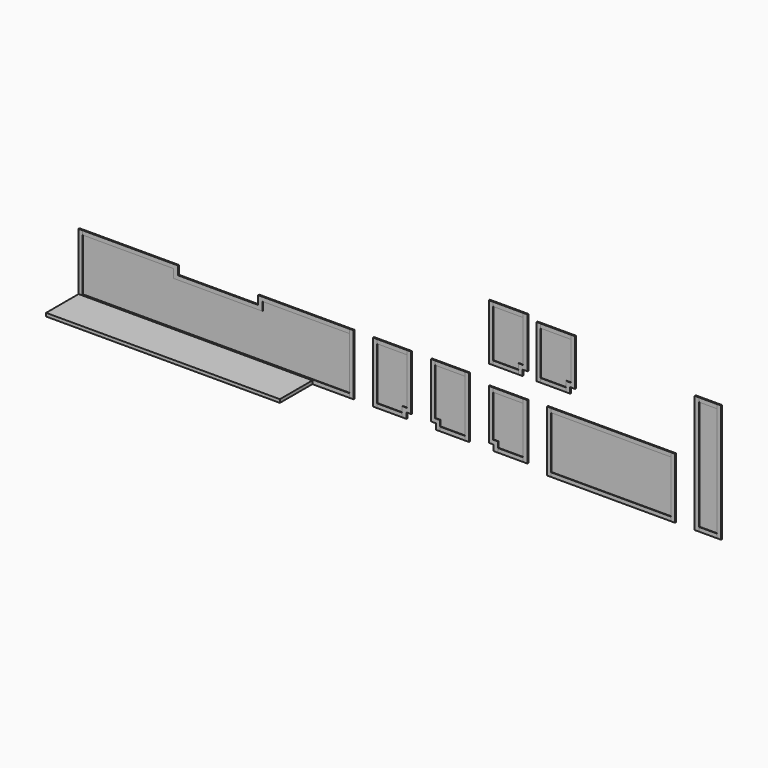
from build123d import *

# Parameters (mm, degrees)
F0_W      = 3619.5
F0_H      = 647.7
F1_DEPTH  = 50.8
F3_DEPTH  = 19.05
F2_W      = 4127.5
F2_H      = 63.5
F4_DEPTH  = 19.05
F5_DEPTH  = 9.525
F7_DEPTH  = 19.05
F6_W      = 463.55
F6_H      = 63.5
F6_W_2    = 387.35
F6_W_3    = 469.9
F6_W_4    = 393.7
F6_W_5    = 1854.2
F8_DEPTH  = 19.05
F6_H_2    = 812.8
F9_DEPTH  = 9.525
F10_DEPTH = 19.05
F6_W_6    = 279.4
F11_DEPTH = 19.05
F6_H_3    = 1701.8
F12_DEPTH = 9.525
F13_DEPTH = 19.05
F14_DEPTH = 19.05
F15_DEPTH = 9.525
F16_DEPTH = 19.05
F17_DEPTH = 19.05
F18_DEPTH = 9.525


with BuildPart() as f1:
    # F0 (on Top) → F1 (new body)
    with BuildSketch(Plane.XY):
        with Locations((1809.75, -323.85)):
            Rectangle(F0_W, F0_H)
    extrude(amount=F1_DEPTH)


with BuildPart() as f3:
    # F2 (on Front) → F3 (new body)
    with BuildSketch(Plane.XZ):
        Polygon((0, 939.8), (0, 0), (63.5, 0), (63.5, 63.5), (63.5, 876.3), (63.5, 939.8), align=None)
        Polygon((4191, 63.5), (4191, 0), (4254.5, 0), (4254.5, 939.8), (4191, 939.8), (4191, 876.3), align=None)
    extrude(amount=F3_DEPTH)


with BuildPart() as f4:
    # F2 (on Front) → F4 (new body)
    with BuildSketch(Plane.XZ):
        Polygon((1536.7, 939.8), (63.5, 939.8), (63.5, 876.3), (1473.2, 876.3), (1473.2, 742.95), (2844.8, 742.95), (2844.8, 876.3), (4191, 876.3), (4191, 939.8), (2781.3, 939.8), (2781.3, 806.45), (1536.7, 806.45), align=None)
        with Locations((2127.25, 31.75)):
            Rectangle(F2_W, F2_H)
    extrude(amount=F4_DEPTH)


with BuildPart() as f5:
    # F2 (on Front) → F5 (new body)
    with BuildSketch(Plane.XZ):
        Polygon((63.5, 876.3), (63.5, 63.5), (4191, 63.5), (4191, 876.3), (2844.8, 876.3), (2844.8, 742.95), (1473.2, 742.95), (1473.2, 876.3), align=None)
    extrude(amount=F5_DEPTH)


with BuildPart() as f7:
    # F6 (on Front) → F7 (new body)
    with BuildSketch(Plane.XZ):
        Polygon((4559.3, 939.8), (4559.3, 0), (4622.8, 0), (4622.8, 63.5), (4622.8, 876.3), (4622.8, 939.8), align=None)
        Polygon((5010.15, 63.5), (5010.15, 0), (5073.65, 0), (5073.65, 88.9), (5149.85, 88.9), (5149.85, 939.8), (5086.35, 939.8), (5086.35, 876.3), (5086.35, 152.4), (5010.15, 152.4), align=None)
        Polygon((5530.85, 88.9), (5530.85, 0), (5594.35, 0), (5594.35, 63.5), (5594.35, 152.4), (5518.15, 152.4), (5518.15, 876.3), (5518.15, 939.8), (5454.65, 939.8), (5454.65, 88.9), align=None)
        Polygon((5981.7, 63.5), (5981.7, 0), (6045.2, 0), (6045.2, 939.8), (5981.7, 939.8), (5981.7, 876.3), align=None)
        Polygon((6426.2, 0), (6489.7, 0), (6489.7, 63.5), (6489.7, 152.4), (6413.5, 152.4), (6413.5, 800.1), (6413.5, 863.6), (6350, 863.6), (6350, 88.9), (6426.2, 88.9), align=None)
        Polygon((6883.4, 0), (6946.9, 0), (6946.9, 863.6), (6883.4, 863.6), (6883.4, 800.1), (6883.4, 63.5), align=None)
        Polygon((7315.2, 876.3), (7251.7, 876.3), (7251.7, -63.5), (7315.2, -63.5), (7315.2, 0), (7315.2, 812.8), align=None)
        Polygon((9232.9, 876.3), (9169.4, 876.3), (9169.4, 812.8), (9169.4, 0), (9169.4, -63.5), (9232.9, -63.5), align=None)
    extrude(amount=F7_DEPTH)


with BuildPart() as f8:
    # F6 (on Front) → F8 (new body)
    with BuildSketch(Plane.XZ):
        with Locations((4854.575, 908.05)):
            Rectangle(F6_W, F6_H)
        with Locations((4816.475, 31.75)):
            Rectangle(F6_W_2, F6_H)
        with Locations((5749.925, 908.05)):
            Rectangle(F6_W, F6_H)
        with Locations((5788.025, 31.75)):
            Rectangle(F6_W_2, F6_H)
        with Locations((6648.45, 831.85)):
            Rectangle(F6_W_3, F6_H)
        with Locations((6686.55, 31.75)):
            Rectangle(F6_W_4, F6_H)
        with Locations((8242.3, 844.55)):
            Rectangle(F6_W_5, F6_H)
        with Locations((8242.3, -31.75)):
            Rectangle(F6_W_5, F6_H)
    extrude(amount=F8_DEPTH)


with BuildPart() as f9:
    # F6 (on Front) → F9 (new body)
    with BuildSketch(Plane.XZ):
        with Locations((8242.3, 406.4)):
            Rectangle(F6_W_5, F6_H_2)
        Polygon((6489.7, 63.5), (6883.4, 63.5), (6883.4, 800.1), (6413.5, 800.1), (6413.5, 152.4), (6489.7, 152.4), align=None)
        Polygon((5594.35, 152.4), (5594.35, 63.5), (5981.7, 63.5), (5981.7, 876.3), (5518.15, 876.3), (5518.15, 152.4), align=None)
        Polygon((4622.8, 876.3), (4622.8, 63.5), (5010.15, 63.5), (5010.15, 152.4), (5086.35, 152.4), (5086.35, 876.3), align=None)
    extrude(amount=F9_DEPTH)


with BuildPart() as f10:
    # F6 (on Front) → F10 (new body)
    with BuildSketch(Plane.XZ):
        Polygon((9537.7, 1765.3), (9537.7, -63.5), (9601.2, -63.5), (9601.2, 0), (9601.2, 1701.8), (9601.2, 1765.3), align=None)
        Polygon((9880.6, 0), (9880.6, -63.5), (9944.1, -63.5), (9944.1, 1765.3), (9880.6, 1765.3), (9880.6, 1701.8), align=None)
    extrude(amount=F10_DEPTH)


with BuildPart() as f11:
    # F6 (on Front) → F11 (new body, through all)
    with BuildSketch(Plane.XZ):
        with Locations((9740.9, -31.75)):
            Rectangle(F6_W_6, F6_H)
        with Locations((9740.9, 1733.55)):
            Rectangle(F6_W_6, F6_H)
    extrude(amount=F11_DEPTH)


with BuildPart() as f12:
    # F6 (on Front) → F12 (new body)
    with BuildSketch(Plane.XZ):
        with Locations((9740.9, 850.9)):
            Rectangle(F6_W_6, F6_H_3)
    extrude(amount=F12_DEPTH)


with BuildPart() as f13:
    # F6 (on Front) → F13 (new body)
    with BuildSketch(Plane.XZ):
        Polygon((6413.5, 2032), (6350, 2032), (6350, 1168.4), (6413.5, 1168.4), (6413.5, 1231.9), (6413.5, 1968.5), align=None)
        Polygon((6946.9, 2032), (6883.4, 2032), (6883.4, 1968.5), (6883.4, 1320.8), (6807.2, 1320.8), (6807.2, 1231.9), (6807.2, 1168.4), (6870.7, 1168.4), (6870.7, 1257.3), (6946.9, 1257.3), align=None)
    extrude(amount=F13_DEPTH)


with BuildPart() as f14:
    # F6 (on Front) → F14 (new body)
    with BuildSketch(Plane.XZ):
        with Locations((6648.45, 2000.25)):
            Rectangle(F6_W_3, F6_H)
        with Locations((6610.35, 1200.15)):
            Rectangle(F6_W_4, F6_H)
    extrude(amount=F14_DEPTH)


with BuildPart() as f15:
    # F6 (on Front) → F15 (new body)
    with BuildSketch(Plane.XZ):
        Polygon((6883.4, 1968.5), (6413.5, 1968.5), (6413.5, 1231.9), (6807.2, 1231.9), (6807.2, 1320.8), (6883.4, 1320.8), align=None)
    extrude(amount=F15_DEPTH)


with BuildPart() as f16:
    # F6 (on Front) → F16 (new body)
    with BuildSketch(Plane.XZ):
        Polygon((7153.226029, 1974.85), (7089.726029, 1974.85), (7089.726029, 1168.4), (7153.226029, 1168.4), (7153.226029, 1231.9), (7153.226029, 1911.35), align=None)
        Polygon((7686.626029, 1974.85), (7623.126029, 1974.85), (7623.126029, 1911.35), (7623.126029, 1320.8), (7546.926029, 1320.8), (7546.926029, 1231.9), (7546.926029, 1168.4), (7610.426029, 1168.4), (7610.426029, 1257.3), (7686.626029, 1257.3), align=None)
    extrude(amount=F16_DEPTH)


with BuildPart() as f17:
    # F6 (on Front) → F17 (new body)
    with BuildSketch(Plane.XZ):
        with Locations((7388.176029, 1943.1)):
            Rectangle(F6_W_3, F6_H)
        with Locations((7350.076029, 1200.15)):
            Rectangle(F6_W_4, F6_H)
    extrude(amount=F17_DEPTH)


with BuildPart() as f18:
    # F6 (on Front) → F18 (new body)
    with BuildSketch(Plane.XZ):
        Polygon((7623.126029, 1911.35), (7153.226029, 1911.35), (7153.226029, 1231.9), (7546.926029, 1231.9), (7546.926029, 1320.8), (7623.126029, 1320.8), align=None)
    extrude(amount=F18_DEPTH)


solid = Compound([f1.part, f3.part, f4.part, f5.part, f7.part, f8.part, f9.part, f10.part, f11.part, f12.part, f13.part, f14.part, f15.part, f16.part, f17.part, f18.part])
